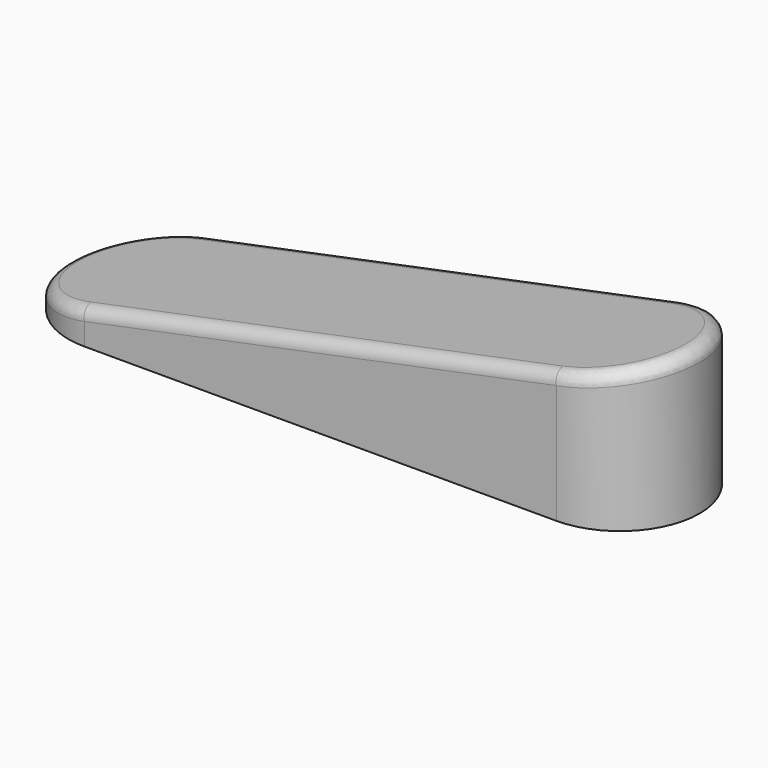
from build123d import *

# Parameters (mm, degrees)
F1_DEPTH      = 25
F3_DEPTH      = 25
F3_DEPTH_BACK = 25
F4_R          = 2


with BuildPart() as f1:
    # F0 (on Top) → F1 (new body)
    with BuildSketch(Plane.XY):
        with BuildLine():
            ThreePointArc((-40, 13.5), (-53.5, 0), (-40, -13.5))
            Line((-40, -13.5), (40, -13.5))
            ThreePointArc((40, -13.5), (53.5, 0), (40, 13.5))
            Line((40, 13.5), (-40, 13.5))
        make_face()
    extrude(amount=F1_DEPTH)

    # F2 (on Front) → F3 (cut, two sides)
    with BuildSketch(Plane.XZ) as f3_sk:
        Polygon((-53.5, 25), (-53.5, 3), (53.5, 25), align=None)
    extrude(amount=-F3_DEPTH, mode=Mode.SUBTRACT)
    extrude(f3_sk.sketch, amount=F3_DEPTH_BACK, mode=Mode.SUBTRACT)

    # F4
    f4_edges = [f1.edges().sort_by_distance(p)[0] for p in [
        (-49.496415, -9.595212, 3.823167),
        (0, -13.5, 14),
        (49.496415, -9.595212, 24.176833),
        (49.496415, 9.595212, 24.176833),
        (0, 13.5, 14),
        (-49.496415, 9.595212, 3.823167),
    ]]
    fillet(f4_edges, radius=F4_R)


solid = f1.part
